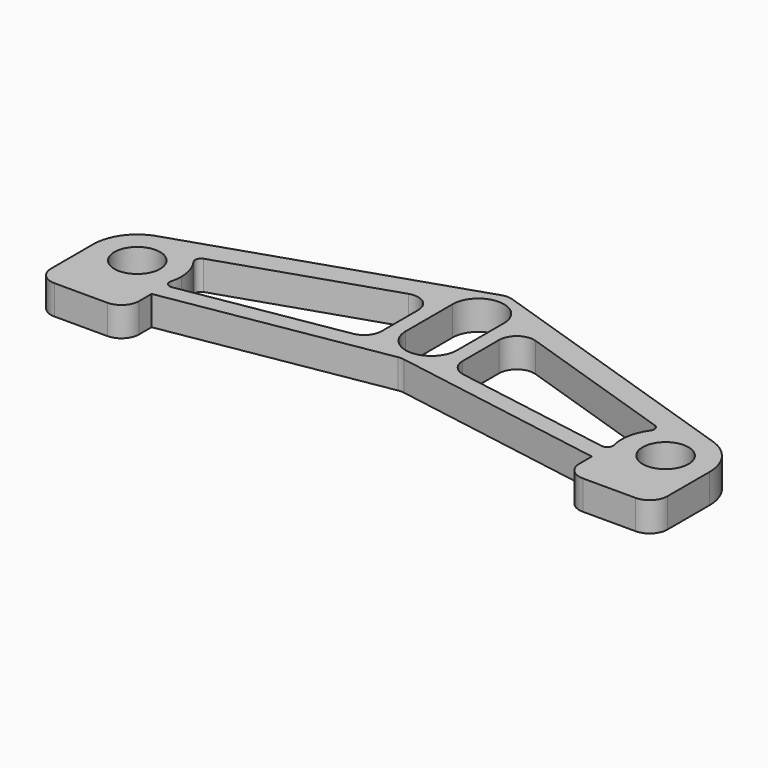
from build123d import *

# Parameters (mm, degrees)
F0_R     = 3.9
F1_DEPTH = 5
F2_DEPTH = 25
F3_R     = 1
F4_R     = 3


with BuildPart() as f1:
    # F0 (on Top) → F1 (new body)
    with BuildSketch(Plane.XY):
        with BuildLine():
            ThreePointArc((-46.9082644116, 7.2531735768), (-43.1416684259, 7.2661271501), (-39.8437820891, 5.4464132101))
            Line((-39.8437820891, 5.4464132101), (-10.8327285679, 15.0306360845))
            ThreePointArc((-10.8327285679, 15.0306360845), (-8.1342763091, 14.6134381435), (-6.8916598566, 12.1820593029))
            Line((-6.8916598566, 12.1820593029), (-6.8916598566, 4.4145286559))
            ThreePointArc((-6.8916598566, 4.4145286559), (-7.6005216796, 2.4778599043), (-9.3921170923, 1.4564115138))
            Line((-9.3921170923, 1.4564115138), (-37.5, -3.2902191476))
            Line((-37.5, -3.2902191476), (-37.5, -6.332695009))
            Line((-37.5, -6.332695009), (-0.4995427643, -0.0843587192))
            ThreePointArc((-0.4995427643, -0.0843587192), (0, -0.0424758613), (0.4995427643, -0.0843587192))
            Line((0.4995427643, -0.0843587192), (37.5, -6.332695009))
            Line((37.5, -6.332695009), (37.5, -3.2902191476))
            Line((37.5, -3.2902191476), (9.3921170923, 1.4564115138))
            ThreePointArc((9.3921170923, 1.4564115138), (7.6005216796, 2.4778599043), (6.8916598566, 4.4145286559))
            Line((6.8916598566, 4.4145286559), (6.8916598566, 12.1820593029))
            ThreePointArc((6.8916598566, 12.1820593029), (8.1342763091, 14.6134381435), (10.8327285679, 15.0306360845))
            Line((10.8327285679, 15.0306360845), (39.8437820891, 5.4464132101))
            ThreePointArc((39.8437820891, 5.4464132101), (43.1416684259, 7.2661271501), (46.9082644116, 7.2531735768))
            Line((46.9082644116, 7.2531735768), (0.9410687113, 22.4391042836))
            ThreePointArc((0.9410687113, 22.4391042836), (0, 22.590527502), (-0.9410687113, 22.4391042836))
            Line((-0.9410687113, 22.4391042836), (-46.9082644116, 7.2531735768))
        make_face()
        with BuildLine():
            ThreePointArc((-4.375, 16.375), (0, 20.75), (4.375, 16.375))
            Line((4.375, 16.375), (4.375, 6.375))
            ThreePointArc((4.375, 6.375), (0, 2), (-4.375, 6.375))
            Line((-4.375, 6.375), (-4.375, 16.375))
        make_face(mode=Mode.SUBTRACT)
        with BuildLine():
            Line((-37.5, -3.2902191476), (-38.3305275597, -3.4304718872))
            ThreePointArc((-38.3305275597, -3.4304718872), (-40.4438234256, -5.9574537365), (-43.4360893176, -7.3351334942))
            Line((-43.4360893176, -7.3351334942), (-37.5, -6.332695009))
            Line((-37.5, -6.332695009), (-37.5, -3.2902191476))
        make_face()
        with BuildLine():
            ThreePointArc((-38.3305275597, -3.4304718872), (-37.7105883879, -1.7647884715), (-37.5, 0))
            ThreePointArc((-37.5, 0), (-38.110818832, 2.9646556012), (-39.8437820891, 5.4464132101))
            ThreePointArc((-39.8437820891, 5.4464132101), (-43.1416684259, 7.2661271501), (-46.9082644116, 7.2531735768))
            ThreePointArc((-46.9082644116, 7.2531735768), (-50.9397804289, 4.5791929919), (-52.5, 0))
            ThreePointArc((-52.5, 0), (-49.7180859404, -5.8300656136), (-43.4360893176, -7.3351334942))
            ThreePointArc((-43.4360893176, -7.3351334942), (-40.4438234256, -5.9574537365), (-38.3305275597, -3.4304718872))
        make_face()
        with Locations((-45, 0)):
            Circle(F0_R, mode=Mode.SUBTRACT)
        with BuildLine():
            ThreePointArc((52.5, 0), (50.9397804289, 4.5791929919), (46.9082644116, 7.2531735768))
            ThreePointArc((46.9082644116, 7.2531735768), (43.1416684259, 7.2661271501), (39.8437820891, 5.4464132101))
            ThreePointArc((39.8437820891, 5.4464132101), (38.110818832, 2.9646556012), (37.5, 0))
            Line((37.5, 0), (41.1, 0))
            ThreePointArc((41.1, 0), (45, 3.9), (48.9, 0))
            Line((48.9, 0), (52.5, 0))
        make_face()
        with BuildLine():
            ThreePointArc((43.4360893176, -7.3351334942), (49.7180859404, -5.8300656136), (52.5, 0))
            Line((52.5, 0), (48.9, 0))
            ThreePointArc((48.9, 0), (45, -3.9), (41.1, 0))
            Line((41.1, 0), (37.5, 0))
            ThreePointArc((37.5, 0), (37.7105883879, -1.7647884715), (38.3305275597, -3.4304718872))
            ThreePointArc((38.3305275597, -3.4304718872), (40.4438234256, -5.9574537365), (43.4360893176, -7.3351334942))
        make_face()
        with BuildLine():
            ThreePointArc((-46.9082644116, 7.2531735768), (-43.1416684259, 7.2661271501), (-39.8437820891, 5.4464132101))
            Line((-39.8437820891, 5.4464132101), (-10.8327285679, 15.0306360845))
            ThreePointArc((-10.8327285679, 15.0306360845), (-8.1342763091, 14.6134381435), (-6.8916598566, 12.1820593029))
            Line((-6.8916598566, 12.1820593029), (-6.8916598566, 4.4145286559))
            ThreePointArc((-6.8916598566, 4.4145286559), (-7.6005216796, 2.4778599043), (-9.3921170923, 1.4564115138))
            Line((-9.3921170923, 1.4564115138), (-37.5, -3.2902191476))
            Line((-37.5, -3.2902191476), (-37.5, -6.332695009))
            Line((-37.5, -6.332695009), (-0.4995427643, -0.0843587192))
            ThreePointArc((-0.4995427643, -0.0843587192), (0, -0.0424758613), (0.4995427643, -0.0843587192))
            Line((0.4995427643, -0.0843587192), (37.5, -6.332695009))
            Line((37.5, -6.332695009), (37.5, -3.2902191476))
            Line((37.5, -3.2902191476), (9.3921170923, 1.4564115138))
            ThreePointArc((9.3921170923, 1.4564115138), (7.6005216796, 2.4778599043), (6.8916598566, 4.4145286559))
            Line((6.8916598566, 4.4145286559), (6.8916598566, 12.1820593029))
            ThreePointArc((6.8916598566, 12.1820593029), (8.1342763091, 14.6134381435), (10.8327285679, 15.0306360845))
            Line((10.8327285679, 15.0306360845), (39.8437820891, 5.4464132101))
            ThreePointArc((39.8437820891, 5.4464132101), (43.1416684259, 7.2661271501), (46.9082644116, 7.2531735768))
            Line((46.9082644116, 7.2531735768), (0.9410687113, 22.4391042836))
            ThreePointArc((0.9410687113, 22.4391042836), (0, 22.590527502), (-0.9410687113, 22.4391042836))
            Line((-0.9410687113, 22.4391042836), (-46.9082644116, 7.2531735768))
        make_face()
        with BuildLine():
            ThreePointArc((-4.375, 16.375), (0, 20.75), (4.375, 16.375))
            Line((4.375, 16.375), (4.375, 6.375))
            ThreePointArc((4.375, 6.375), (0, 2), (-4.375, 6.375))
            Line((-4.375, 6.375), (-4.375, 16.375))
        make_face(mode=Mode.SUBTRACT)
        with BuildLine():
            Line((37.5, -3.2902191476), (37.5, -6.332695009))
            Line((37.5, -6.332695009), (43.4360893176, -7.3351334942))
            ThreePointArc((43.4360893176, -7.3351334942), (40.4438234256, -5.9574537365), (38.3305275597, -3.4304718872))
            Line((38.3305275597, -3.4304718872), (37.5, -3.2902191476))
        make_face()
        with BuildLine():
            Line((43.4360893176, -7.3351334942), (37.5, -6.332695009))
            Line((37.5, -6.332695009), (37.5, -12))
            Line((37.5, -12), (52.5, -12))
            Line((52.5, -12), (52.5, 0))
            ThreePointArc((52.5, 0), (49.7180859404, -5.8300656136), (43.4360893176, -7.3351334942))
        make_face()
        with BuildLine():
            Line((-37.5, -6.332695009), (-43.4360893176, -7.3351334942))
            ThreePointArc((-43.4360893176, -7.3351334942), (-49.7180859404, -5.8300656136), (-52.5, 0))
            Line((-52.5, 0), (-52.5, -12))
            Line((-52.5, -12), (-37.5, -12))
            Line((-37.5, -12), (-37.5, -6.332695009))
        make_face()
    extrude(amount=F1_DEPTH)

    # F0 (on Top) → F2 (cut)
    with BuildSketch(Plane.XY):
        with Locations((-45, 0)):
            Circle(F0_R)
        with BuildLine():
            Line((41.1, 0), (48.9, 0))
            ThreePointArc((48.9, 0), (45, 3.9), (41.1, 0))
        make_face()
        with BuildLine():
            ThreePointArc((41.1, 0), (45, -3.9), (48.9, 0))
            Line((48.9, 0), (41.1, 0))
        make_face()
    extrude(amount=F2_DEPTH, mode=Mode.SUBTRACT)

    # F3
    f3_edges = [f1.edges().sort_by_distance(p)[0] for p in [
        (-39.843782, 5.446413, 2.5),
        (-38.330528, -3.430472, 2.5),
        (39.843782, 5.446413, 2.5),
        (38.330528, -3.430472, 2.5),
    ]]
    fillet(f3_edges, radius=F3_R)

    # F4
    f4_edges = [f1.edges().sort_by_distance(p)[0] for p in [
        (-52.5, -12, 2.5),
        (-37.5, -12, 2.5),
        (37.5, -12, 2.5),
        (52.5, -12, 2.5),
    ]]
    fillet(f4_edges, radius=F4_R)


solid = f1.part
